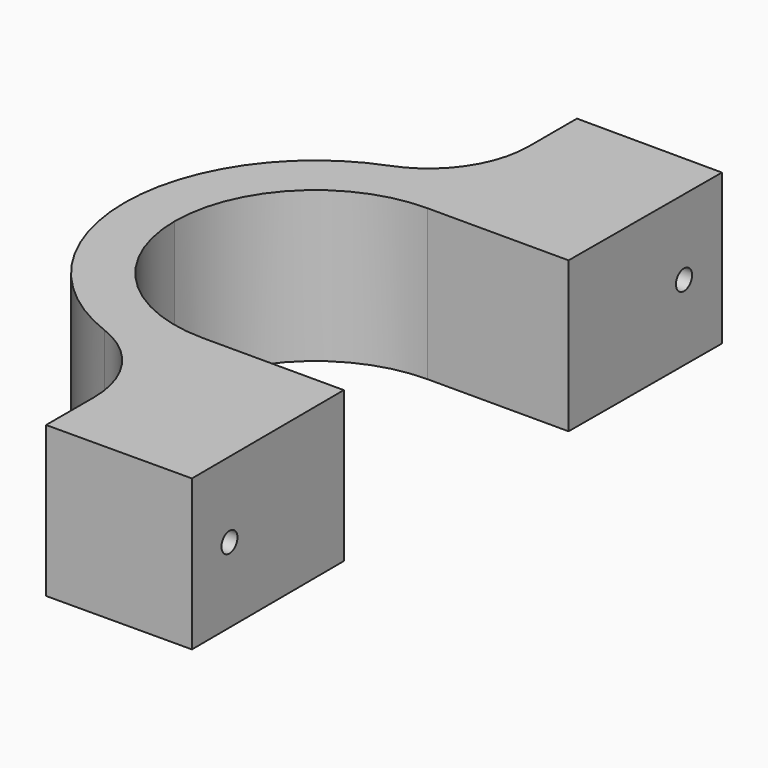
from build123d import *

# Parameters (mm, degrees)
F1_DEPTH = 15
F2_R     = 10
F4_D     = 2


with BuildPart() as f1:
    # F0 (on Top) → F1 (new body)
    with BuildSketch(Plane.XY):
        with BuildLine():
            Line((-19, 0), (-14, 0))
            ThreePointArc((-14, 0), (-9.899495, 9.899495), (0, 14))
            Line((0, 14), (14.053407, 14))
            Line((14.053407, 14), (14.125915, 33.006928))
            Line((14.125915, 33.006928), (-0.363272, 33.062202))
            Line((-0.363272, 33.062202), (-0.363272, 18.996527))
            ThreePointArc((-0.363272, 18.996527), (-13.562857, 13.305973), (-19, 0))
        make_face()
        with BuildLine():
            ThreePointArc((0, -14), (-9.899495, -9.899495), (-14, 0))
            Line((-14, 0), (-19, 0))
            ThreePointArc((-19, 0), (-13.562857, -13.305973), (-0.363272, -18.996527))
            Line((-0.363272, -18.996527), (-0.363272, -33.062202))
            Line((-0.363272, -33.062202), (14.125915, -33.006928))
            Line((14.125915, -33.006928), (14.053407, -14))
            Line((14.053407, -14), (0, -14))
        make_face()
    extrude(amount=F1_DEPTH)

    # F2
    f2_edges = [f1.edges().sort_by_distance(p)[0] for p in [
        (-0.363272, 18.996527, 7.5),
        (-0.363272, -18.996527, 7.5),
    ]]
    fillet(f2_edges, radius=F2_R)

    # F4 (through all)
    with Locations(Plane(origin=(-0.363272, 0, 0), x_dir=(0, -1, 0), z_dir=(-1, 0, 0))):
        with Locations((-28.308908, 7.5), (28.308908, 7.5)):
            Hole(F4_D / 2)


solid = f1.part
